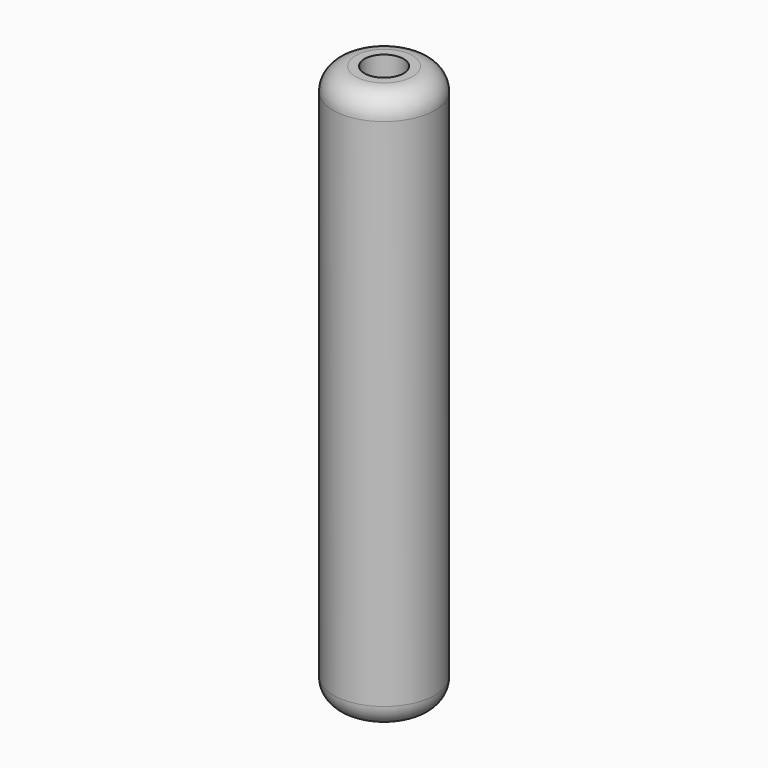
from build123d import *

# Parameters (mm, degrees)
F0_R     = 11.531168
F1_DEPTH = 127
F3_D     = 8.89
F4_R     = 5.08
F5_R     = 5.08


with BuildPart() as f1:
    # F0 (on Top) → F1 (new body)
    with BuildSketch(Plane.XY):
        with Locations((-11.531168, 0)):
            Circle(F0_R)
    extrude(amount=F1_DEPTH)

    # F3 (through all)
    with Locations(Plane(origin=(0, 0, 0), x_dir=(1, 0, 0), z_dir=(0, 0, -1))):
        with Locations((-11.531168, 0)):
            Hole(F3_D / 2)

    # F4
    f4_edges = [f1.edges().sort_by_distance(p)[0] for p in [
        (-23.062335, 0, 127),
    ]]
    fillet(f4_edges, radius=F4_R)

    # F5
    f5_edges = [f1.edges().sort_by_distance(p)[0] for p in [
        (-23.062335, 0, 0),
    ]]
    fillet(f5_edges, radius=F5_R)


solid = f1.part
